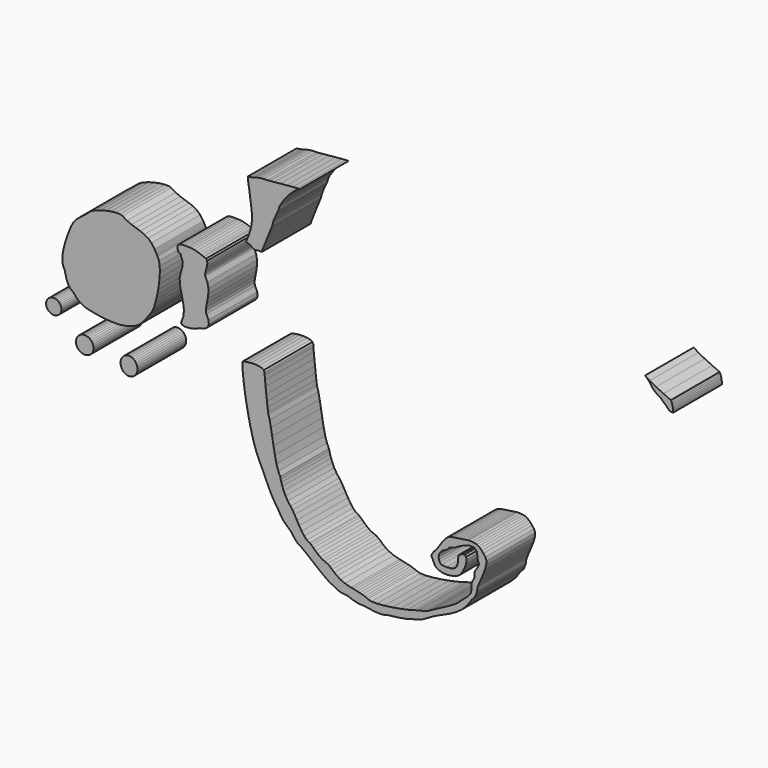
from build123d import *

# Parameters (mm, degrees)
F1_DEPTH = 76.2


with BuildPart() as f1:
    # F0 (on Front) → F1 (new body)
    with BuildSketch(Plane.XZ):
        Polygon((-179.527556, 137.98103), (-182.975148, 129.645537), (-182.919751, 129.325548), (-182.519549, 129.026234), (-181.873246, 128.747139), (-181.07914, 128.488135), (-180.236063, 128.24874), (-179.44244, 128.028751), (-178.796747, 127.827735), (-178.397764, 127.645541), (-175.541356, 125.686541), (-173.570062, 124.533736), (-172.178955, 124.007143), (-171.062548, 123.927133), (-169.915942, 124.11395), (-168.433852, 124.387737), (-166.311047, 124.568839), (-163.242447, 124.47745), (-162.676942, 126.428043), (-161.186139, 130.438144), (-159.078549, 135.794953), (-156.662755, 141.785848), (-154.24724, 147.698054), (-152.140463, 152.818744), (-150.650956, 156.43545), (-150.087355, 157.835143), (-149.810648, 159.87395), (-148.97735, 162.616845), (-147.770342, 165.764642), (-146.372555, 169.01795), (-144.966741, 172.077329), (-143.735755, 174.64344), (-142.862554, 176.416843), (-142.529839, 177.098249), (-141.578863, 180.825546), (-139.234748, 185.381544), (-135.870061, 190.381433), (-131.856963, 195.44063), (-127.568046, 200.174352), (-123.375649, 204.198042), (-119.652161, 207.126942), (-116.769947, 208.576443), (-115.75956, 209.095035), (-118.695851, 209.076036), (-124.453752, 208.663743), (-131.908448, 208.00253), (-139.93495, 207.236949), (-147.408163, 206.511347), (-153.20325, 205.970048), (-156.195141, 205.757551), (-161.105139, 205.596033), (-165.082449, 205.170253), (-168.328061, 204.568349), (-171.043448, 203.878332), (-173.429651, 203.18824), (-175.688041, 202.586336), (-178.019761, 202.16053), (-180.626055, 201.999037), (-180.808757, 201.43724), (-180.75336, 199.930233), (-180.519959, 197.745731), (-180.168652, 195.151146), (-179.759559, 192.414246), (-179.352854, 189.80244), (-179.008659, 187.583445), (-178.787146, 186.024749), (-177.641047, 177.463145), (-176.613541, 170.134839), (-175.883849, 163.639449), (-175.631145, 157.576749), (-176.034751, 151.54623), (-177.273839, 145.147843), align=None)
        Polygon((-297.06255, 83.068846), (-297.613045, 84.072247), (-301.335846, 89.407441), (-305.600964, 93.224553), (-310.320741, 95.93773), (-315.407345, 97.961348), (-320.773146, 99.709453), (-326.330564, 101.596241), (-331.991741, 104.036038), (-337.669149, 107.44294), (-340.71814, 108.361251), (-345.585745, 108.422237), (-351.688451, 107.740933), (-358.442539, 106.43235), (-365.264649, 104.611754), (-371.571063, 102.393953), (-376.778342, 99.894238), (-380.302745, 97.227542), (-382.662659, 94.974232), (-385.322953, 92.862933), (-388.176643, 90.758442), (-391.116947, 88.525934), (-394.036956, 86.030435), (-396.829661, 83.13674), (-399.388254, 79.710153), (-401.605852, 75.615343), (-403.732543, 70.67743), (-406.19205, 64.404951), (-408.661641, 57.24845), (-410.818355, 49.658549), (-412.339561, 42.085641), (-412.902349, 34.980448), (-412.183859, 28.793237), (-409.861461, 23.974831), (-409.566059, 23.045547), (-409.148356, 21.086445), (-408.543862, 18.394934), (-407.688059, 15.26855), (-406.516764, 12.00465), (-404.965357, 8.900846), (-402.969552, 6.254344), (-400.46496, 4.362831), (-399.09115, 3.328949), (-397.695649, 1.777035), (-396.099563, -0.140056), (-394.124155, -2.269465), (-391.590555, -4.458259), (-388.320051, -6.553759), (-384.13375, -8.402853), (-378.852862, -9.852863), (-370.315439, -11.46335), (-361.014162, -12.814452), (-351.311845, -13.595858), (-341.57125, -13.497662), (-332.154962, -12.209856), (-323.425744, -9.422155), (-315.746359, -4.824654), (-309.479544, 1.892833), (-306.440764, 6.161837), (-304.05865, 9.356446), (-302.185045, 11.906631), (-300.671941, 14.24244), (-299.371258, 16.793947), (-298.135142, 19.991045), (-296.815358, 24.263833), (-295.263951, 30.042129), (-294.176044, 34.705544), (-293.042645, 40.532736), (-292.014554, 47.116746), (-291.242648, 54.05054), (-290.877752, 60.927336), (-291.07064, 67.340048), (-291.97234, 72.881846), (-293.733652, 77.145744), (-294.022145, 77.617549), (-294.404059, 78.275129), (-294.860853, 79.081935), (-295.373857, 80.00144), (-295.924249, 80.996739), (-296.493362, 82.031434), align=None)
        Polygon((-264.937443, 89.060553), (-264.910067, 89.048178), (-264.268356, 86.410749), (-263.449359, 84.421548), (-262.694852, 82.670447), (-262.230946, 80.68343), (-262.284058, 77.986738), (-263.080348, 74.106253), (-264.845851, 68.568037), (-266.076963, 62.283645), (-265.805361, 55.672152), (-264.585348, 48.852938), (-262.971356, 41.945636), (-261.517943, 35.069831), (-260.779362, 28.345054), (-261.310145, 21.890736), (-263.664751, 15.826537), (-264.301859, 13.30513), (-262.949944, 11.726951), (-260.101563, 10.972241), (-256.24884, 10.921238), (-251.884358, 11.453952), (-247.500343, 12.45075), (-243.58915, 13.791641), (-240.643258, 15.356942), (-239.85794, 15.444953), (-237.926448, 15.78704), (-235.39135, 16.566642), (-232.795343, 17.967452), (-230.681149, 20.172731), (-229.591464, 23.366247), (-230.068857, 27.731441), (-232.656253, 33.451749), (-233.361357, 36.36993), (-233.046549, 40.379929), (-232.146246, 45.257237), (-231.094839, 50.777343), (-230.326641, 56.715838), (-230.276146, 62.848134), (-231.377642, 68.949951), (-234.065547, 74.79665), (-234.338546, 76.591033), (-233.847462, 79.311754), (-232.966057, 82.605448), (-232.06804, 86.11903), (-231.527045, 89.499237), (-231.716961, 92.392932), (-233.011243, 94.446852), (-235.783755, 95.307836), (-236.284745, 95.525844), (-237.627262, 96.095744), (-239.659643, 96.895031), (-242.230046, 97.801354), (-245.18686, 98.692132), (-248.378447, 99.444937), (-251.652964, 99.93724), (-254.858749, 100.046536), (-257.155061, 100.060735), (-259.90644, 100.126952), (-262.786749, 100.048644), (-265.469853, 99.629138), (-267.629462, 98.67204), (-268.93934, 96.980731), (-269.073249, 94.358841), (-267.705053, 90.609649), (-267.531748, 90.454251), (-267.160248, 90.218031), (-266.652858, 89.930732), (-266.071756, 89.622351), (-265.479251, 89.322351), align=None)
        Polygon((-184.960844, -3.366668), (-187.673539, -4.255262), (-187.195943, -14.676552), (-185.847152, -27.473656), (-183.753557, -41.794862), (-181.041345, -56.788456), (-177.836754, -71.602448), (-174.266047, -85.385148), (-170.455463, -97.284769), (-166.531239, -106.44947), (-164.09924, -111.341764), (-161.661348, -116.626259), (-159.198742, -122.149667), (-156.692752, -127.758546), (-154.124457, -133.299556), (-151.475262, -138.619459), (-148.726246, -143.564661), (-145.85884, -147.982051), (-143.363163, -151.677548), (-141.644751, -154.558162), (-140.361162, -156.897857), (-139.16975, -158.970269), (-137.728046, -161.049259), (-135.693455, -163.408665), (-132.723357, -166.322248), (-128.475156, -170.063846), (-126.991059, -171.53316), (-125.629746, -173.219567), (-124.306152, -175.050069), (-122.935263, -176.951767), (-121.432142, -178.85156), (-119.711851, -180.676448), (-117.689351, -182.35356), (-115.279754, -183.809767), (-112.555249, -185.615961), (-108.254851, -188.924565), (-102.865555, -193.242768), (-96.874559, -198.078065), (-90.768856, -202.937847), (-85.035339, -207.329456), (-80.161155, -210.760259), (-76.633248, -212.737751), (-73.174758, -214.247857), (-70.738848, -215.492559), (-68.933746, -216.50767), (-67.367455, -217.329156), (-65.648053, -217.992858), (-63.383643, -218.534564), (-60.182252, -218.990266), (-55.65206, -219.395751), (-55.181449, -219.593363), (-53.921863, -220.10817), (-52.016152, -220.829556), (-49.607343, -221.646953), (-46.83826, -222.449746), (-43.851754, -223.127367), (-40.790952, -223.569149), (-37.798553, -223.66445), (-35.097441, -223.800264), (-31.663361, -224.269757), (-27.678151, -224.897264), (-23.323652, -225.507169), (-18.781649, -225.923551), (-14.234262, -225.97077), (-9.863252, -225.473158), (-5.850458, -224.255051), (-4.92506, -224.149056), (-2.501062, -223.877353), (1.001446, -223.462367), (5.162347, -222.926758), (9.561754, -222.29285), (13.779551, -221.583148), (17.395749, -220.820361), (19.990156, -220.026763), (22.374352, -219.211957), (24.711558, -218.666568), (27.114652, -218.214169), (29.696537, -217.678152), (32.570344, -216.881964), (35.84895, -215.649048), (39.64526, -213.802951), (44.07215, -211.167066), (51.11684, -207.125265), (58.467041, -203.598856), (65.940356, -200.240849), (73.353955, -196.703848), (80.525239, -192.640661), (87.271758, -187.704247), (93.410837, -181.547262), (98.75995, -173.822563), (99.169347, -173.26737), (99.808055, -172.572147), (100.589639, -171.786347), (101.427737, -170.95917), (102.236245, -170.140147), (102.928547, -169.378452), (103.418361, -168.723666), (103.619452, -168.224962), (104.003958, -167.193849), (104.403246, -166.227963), (104.796844, -165.307747), (105.164458, -164.413768), (105.485743, -163.526267), (105.740454, -162.625761), (105.908145, -161.692666), (105.968546, -160.707553), (106.674844, -156.929963), (108.481546, -152.063755), (110.92086, -146.473469), (113.52464, -140.523849), (115.824838, -134.57936), (117.353461, -129.004746), (117.642538, -124.164547), (116.22405, -120.423356), (113.847347, -117.437459), (111.759238, -114.974751), (109.786649, -112.996751), (107.756249, -111.46475), (105.49476, -110.340267), (102.829055, -109.584846), (99.585958, -109.159853), (95.592036, -109.026757), (94.647639, -109.151471), (92.367837, -109.484058), (89.162357, -109.962264), (85.44085, -110.523655), (81.613146, -111.106052), (78.089049, -111.647046), (75.278259, -112.084358), (73.590658, -112.355655), (70.619849, -113.349862), (67.94406, -115.142366), (65.509242, -117.540761), (63.261748, -120.352668), (61.147655, -123.385656), (59.112861, -126.447347), (57.103645, -129.345258), (55.066159, -131.887062), (52.078839, -135.322158), (50.175439, -137.816666), (49.175137, -139.619152), (48.896956, -140.978661), (49.160049, -142.143861), (49.783441, -143.363671), (50.586437, -144.886655), (51.387959, -146.96186), (53.811957, -151.219256), (57.670243, -153.950365), (62.49096, -155.373248), (67.802354, -155.705759), (73.132544, -155.165958), (78.009648, -153.971752), (81.961939, -152.341148), (84.517636, -150.492155), (87.911838, -145.923965), (90.491742, -140.905255), (92.142945, -135.942553), (92.751656, -131.542561), (92.203448, -128.211656), (90.384351, -126.456364), (87.180344, -126.783363), (82.477153, -129.698953), (82.274943, -135.135061), (81.599151, -139.415647), (80.346347, -142.653055), (78.413153, -144.959654), (75.695861, -146.447561), (72.09094, -147.229246), (67.495039, -147.416952), (61.804652, -147.122947), (60.474758, -146.463156), (59.225561, -144.853762), (58.29046, -142.542158), (57.903237, -139.775565), (58.297343, -136.801555), (59.706256, -133.867449), (62.363655, -131.220566), (66.503042, -129.108352), (67.698645, -128.49065), (68.554549, -127.699364), (69.262854, -126.803353), (70.015557, -125.871554), (71.004455, -124.972648), (72.42175, -124.175571), (74.459236, -123.548953), (77.30904, -123.161857), (78.635758, -122.333258), (82.034456, -120.326658), (86.799649, -117.848761), (92.226257, -115.606246), (97.608644, -114.305664), (102.241756, -114.653568), (105.420058, -117.356661), (106.438344, -123.121547), (106.583556, -125.789665), (107.093842, -127.593649), (107.700445, -128.905356), (108.13415, -130.096565), (108.125946, -131.539361), (107.406948, -133.605448), (105.708044, -136.666961), (102.760348, -141.095552), (102.686739, -141.847646), (102.673658, -142.805048), (102.694359, -143.890467), (102.722147, -145.026558), (102.730452, -146.136157), (102.692454, -147.14187), (102.581456, -147.966455), (102.370941, -148.532469), (100.645646, -151.402466), (99.625937, -153.624661), (99.135336, -155.406065), (98.997745, -156.953255), (99.036759, -158.473165), (99.076256, -160.172349), (98.939858, -162.257765), (98.45134, -164.93617), (97.94715, -166.569847), (96.428458, -168.695548), (94.224348, -171.095467), (91.663749, -173.551647), (89.075641, -175.846257), (86.78926, -177.761367), (85.133256, -179.078966), (84.436941, -179.581353), (82.84525, -181.565347), (79.137358, -184.253149), (73.953446, -187.396171), (67.933849, -190.745567), (61.718546, -194.052749), (55.947742, -197.068948), (51.261645, -199.545448), (48.300437, -201.233557), (45.500239, -202.834062), (42.853051, -204.005764), (40.378151, -204.835049), (38.095047, -205.408555), (36.022839, -205.812466), (34.181161, -206.133268), (32.589038, -206.457448), (31.265952, -206.871468), (26.457961, -208.411369), (18.996838, -210.253351), (9.79076, -212.164651), (-0.252247, -213.912755), (-10.223957, -215.26467), (-19.216345, -215.987859), (-26.321156, -215.849556), (-30.630444, -214.61697), (-32.313042, -213.724058), (-34.718447, -212.834957), (-37.624461, -211.970747), (-40.80924, -211.152156), (-44.050458, -210.39996), (-47.126347, -209.735166), (-49.814658, -209.178449), (-51.893343, -208.750865), (-59.231962, -206.763366), (-64.88844, -204.386459), (-69.241949, -201.777854), (-72.671864, -199.095055), (-75.557456, -196.495848), (-78.277949, -194.137966), (-81.212741, -192.179067), (-84.741055, -190.776657), (-87.491062, -189.624665), (-90.421562, -187.759061), (-93.386554, -185.442047), (-96.239863, -182.935448), (-98.835464, -180.501265), (-101.027154, -178.40137), (-102.668959, -176.897665), (-103.614652, -176.252251), (-106.936057, -174.548648), (-110.216163, -171.296355), (-113.427764, -166.933347), (-116.543252, -161.897847), (-119.535143, -156.628059), (-122.376159, -151.561952), (-125.038663, -147.137857), (-127.495351, -143.793769), (-130.897554, -139.336958), (-133.684543, -134.59587), (-135.907348, -129.839669), (-137.616844, -125.337468), (-138.864061, -121.358762), (-139.699949, -118.17256), (-140.175463, -116.048257), (-140.341655, -115.255065), (-142.797657, -110.345449), (-144.972151, -103.059865), (-146.919163, -94.152847), (-148.692946, -84.379054), (-150.347248, -74.493069), (-151.936348, -65.24945), (-153.514146, -57.402755), (-155.13464, -51.707771), (-155.509646, -49.512855), (-156.134359, -44.649847), (-156.91645, -37.970054), (-157.763464, -30.324654), (-158.583046, -22.565157), (-159.282943, -15.542768), (-159.770547, -10.108768), (-159.953655, -7.114565), (-160.927339, -4.871568), (-163.539653, -3.349955), (-167.327047, -2.458568), (-171.82625, -2.105965), (-176.57384, -2.200656), (-181.106547, -2.651354), align=None)
        Polygon((348.872861, 126.76185), (348.262075, 127.619132), (339.077757, 131.835144), (329.736958, 136.258833), (321.782338, 140.421538), (315.981359, 144.210151), (319.026743, 141.671853), (321.233038, 139.328144), (322.901361, 137.140239), (324.332752, 135.06925), (325.82866, 133.076137), (327.689947, 131.122141), (330.218059, 129.168246), (333.714039, 127.175641), (334.853255, 126.34915), (336.755359, 124.715549), (339.138336, 122.555254), (341.720449, 120.148833), (344.219454, 117.776752), (346.353536, 115.719454), (346.895127, 115.187112), (347.58056, 115.124052), (351.097444, 114.651434), (351.245754, 115.877645), (351.180146, 117.547441), (350.935849, 119.495443), (350.547737, 121.556247), (350.051243, 123.564548), (349.481242, 125.354842), align=None)
        Polygon((-414.127518, -22.100032), (-413.942454, -20.266863), (-414.127518, -18.433694), (-414.675599, -16.670985), (-415.565641, -15.046452), (-416.763429, -13.622528), (-418.222938, -12.45395), (-419.888086, -11.585626), (-421.694864, -11.050905), (-423.573854, -10.870362), (-425.452845, -11.050905), (-427.259623, -11.585626), (-428.924771, -12.45395), (-430.38428, -13.622528), (-431.582068, -15.046452), (-432.472109, -16.670985), (-433.020191, -18.433694), (-433.205255, -20.266863), (-433.020191, -22.100032), (-432.472109, -23.862741), (-431.582068, -25.487274), (-430.38428, -26.911198), (-428.924771, -28.079751), (-427.259623, -28.948101), (-425.452845, -29.482796), (-423.573854, -29.663365), (-421.694864, -29.482796), (-419.888086, -28.948101), (-418.222938, -28.079751), (-416.763429, -26.911198), (-415.565641, -25.487274), (-414.675599, -23.862741), align=None)
        Polygon((-374.012308, -52.105712), (-373.800141, -49.997563), (-374.012308, -47.889414), (-374.640602, -45.862291), (-375.660895, -43.99407), (-377.033993, -42.356557), (-378.707091, -41.012694), (-380.615952, -40.014119), (-382.68717, -39.399185), (-384.84114, -39.191565), (-386.995137, -39.399185), (-389.066354, -40.014119), (-390.975215, -41.012694), (-392.648313, -42.356557), (-394.021412, -43.99407), (-395.041704, -45.862291), (-395.669999, -47.889414), (-395.882139, -49.997563), (-395.669999, -52.105712), (-395.041704, -54.132836), (-394.021412, -56.001056), (-392.648313, -57.638544), (-390.975215, -58.982407), (-389.066354, -59.981008), (-386.995137, -60.595916), (-384.84114, -60.803561), (-382.68717, -60.595916), (-380.615952, -59.981008), (-378.707091, -58.982407), (-377.033993, -57.638544), (-375.660895, -56.001056), (-374.640602, -54.132836), align=None)
        Polygon((-327.43333, -44.087618), (-329.495658, -43.870956), (-331.55796, -44.087618), (-333.54104, -44.729273), (-335.368646, -45.771283), (-336.970548, -47.173566), (-338.285201, -48.882249), (-339.262085, -50.831699), (-339.863633, -52.94696), (-340.066757, -55.146753), (-339.863633, -57.346545), (-339.262085, -59.461832), (-338.285201, -61.411256), (-336.970548, -63.119965), (-335.368646, -64.522248), (-333.54104, -65.564233), (-331.55796, -66.205887), (-329.495658, -66.422549), (-327.43333, -66.205887), (-325.450276, -65.564233), (-323.62267, -64.522248), (-322.020743, -63.119965), (-320.706115, -61.411256), (-319.729231, -59.461832), (-319.127683, -57.346545), (-318.924559, -55.146753), (-319.127683, -52.94696), (-319.729231, -50.831699), (-320.706115, -48.882249), (-322.020743, -47.173566), (-323.62267, -45.771283), (-325.450276, -44.729273), align=None)
    extrude(amount=F1_DEPTH)


solid = f1.part
